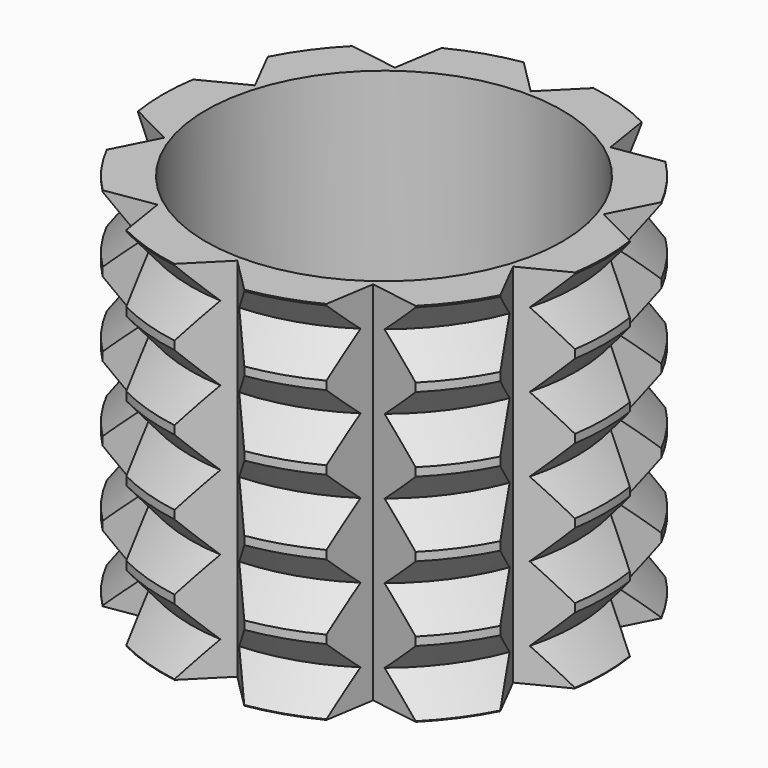
from build123d import *

# Parameters (mm, degrees)
F0_R     = 28.2
F0_R_2   = 20.05
F1_DEPTH = 2
F2_R     = 35
F2_R_2   = 28.2
F3_DEPTH = 58
F7_DEPTH = 58.001


with BuildPart() as f1:
    # F0 (on Top) → F1 (new body)
    with BuildSketch(Plane.XY):
        Circle(F0_R)
        Circle(F0_R_2, mode=Mode.SUBTRACT)
    extrude(amount=F1_DEPTH)


with BuildPart() as f3:
    # F2 (on face) → F3 (new body)
    with BuildSketch(Plane(origin=(0, 0, 0), x_dir=(1, 0, 0), z_dir=(0, 0, -1))):
        Circle(F2_R)
        Circle(F2_R_2, mode=Mode.SUBTRACT)
    extrude(amount=-F3_DEPTH)

    # F4 (on Front) → F5 (revolve, cut)
    with BuildSketch(Plane.XZ):
        Polygon((-35.086226, 10.680645), (-35.086226, 0), (-30.560637, 5.340322), align=None)
        Polygon((-35.086226, 11.8), (-30.560637, 17.140322), (-35.086226, 22.480645), align=None)
        Polygon((-35.086226, 23.6), (-30.560637, 28.940322), (-35.086226, 34.280645), align=None)
        Polygon((-35.086226, 35.4), (-30.560637, 40.740322), (-35.086226, 46.080645), align=None)
        Polygon((-35.086226, 47.2), (-30.560637, 52.540322), (-35.086226, 57.880645), align=None)
    revolve(axis=Axis((0, 0, 31.213704), (0, 0, 1)), mode=Mode.SUBTRACT)

    # F6 (on face) → F7 (cut, through all)
    with BuildSketch(Plane.XY.offset(58)):
        Polygon((0, 39.496765), (0, 29.037255), (10.892705, 39.92996), align=None)
        Polygon((-10.892705, 39.92996), (0, 29.037255), (0, 39.496765), align=None)
        Polygon((-32.282625, 25.901445), (-17.06767, 23.491633), (-23.215616, 31.953554), align=None)
        Polygon((-23.215616, 31.953554), (-17.06767, 23.491633), (-14.657858, 38.706588), align=None)
        Polygon((-41.34168, 1.979458), (-27.61607, 8.973005), (-37.563656, 12.205172), align=None)
        Polygon((-37.563656, 12.205172), (-27.61607, 8.973005), (-34.609618, 22.698614), align=None)
        Polygon((-34.609618, -22.698614), (-27.61607, -8.973005), (-37.563656, -12.205172), align=None)
        Polygon((-37.563656, -12.205172), (-27.61607, -8.973005), (-41.34168, -1.979458), align=None)
        Polygon((-14.657858, -38.706588), (-17.06767, -23.491633), (-23.215616, -31.953554), align=None)
        Polygon((-23.215616, -31.953554), (-17.06767, -23.491633), (-32.282625, -25.901445), align=None)
        Polygon((10.892705, -39.92996), (0, -29.037255), (0, -39.496765), align=None)
        Polygon((0, -39.496765), (0, -29.037255), (-10.892705, -39.92996), align=None)
        Polygon((32.282625, -25.901445), (17.06767, -23.491633), (23.215616, -31.953554), align=None)
        Polygon((23.215616, -31.953554), (17.06767, -23.491633), (14.657858, -38.706588), align=None)
        Polygon((41.34168, -1.979458), (27.61607, -8.973005), (37.563656, -12.205172), align=None)
        Polygon((37.563656, -12.205172), (27.61607, -8.973005), (34.609618, -22.698614), align=None)
        Polygon((34.609618, 22.698614), (27.61607, 8.973005), (37.563656, 12.205172), align=None)
        Polygon((37.563656, 12.205172), (27.61607, 8.973005), (41.34168, 1.979458), align=None)
        Polygon((14.657858, 38.706588), (17.06767, 23.491633), (23.215616, 31.953554), align=None)
        Polygon((23.215616, 31.953554), (17.06767, 23.491633), (32.282625, 25.901445), align=None)
    extrude(amount=-F7_DEPTH, mode=Mode.SUBTRACT)


solid = Compound([f1.part, f3.part])
